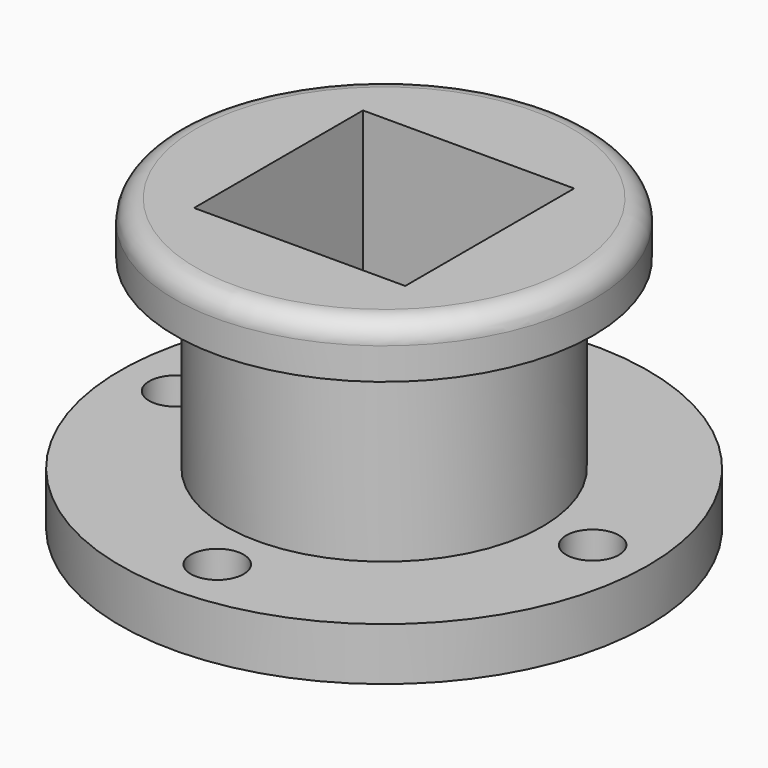
from build123d import *

# Parameters (mm, degrees)
F0_R      = 63.5
F1_DEPTH  = 12.7
F2_R      = 38.1
F3_DEPTH  = 57.15
F4_R      = 50.339294
F5_DEPTH  = 12.7
F6_R      = 5.08
F7_R      = 6.35
F8_DEPTH  = 12.7
F9_W      = 50.8
F9_H      = 50.8
F10_DEPTH = 127


with BuildPart() as f1:
    # F0 (on Top) → F1 (new body)
    with BuildSketch(Plane.XY):
        Circle(F0_R)
    extrude(amount=F1_DEPTH)

    # F2 (on Top) → F3 (join)
    with BuildSketch(Plane.XY):
        Circle(F2_R)
    extrude(amount=F3_DEPTH)

    # F4 (on face) → F5 (join)
    with BuildSketch(Plane.XY.offset(57.15)):
        Circle(F4_R)
    extrude(amount=F5_DEPTH)

    # F6
    f6_edges = [f1.edges().sort_by_distance(p)[0] for p in [
        (-50.339294, 0, 69.85),
    ]]
    fillet(f6_edges, radius=F6_R)

    # F7 (on Top) → F8 (cut)
    with BuildSketch(Plane.XY):
        with Locations((0, 50.170619)):
            Circle(F7_R)
        with Locations((-50.170619, 0)):
            Circle(F7_R)
        with Locations((0, -50.170619)):
            Circle(F7_R)
        with Locations((50.170619, 0)):
            Circle(F7_R)
    extrude(amount=F8_DEPTH, mode=Mode.SUBTRACT)

    # F9 (on Top) → F10 (cut)
    with BuildSketch(Plane.XY):
        Rectangle(F9_W, F9_H)
    extrude(amount=F10_DEPTH, mode=Mode.SUBTRACT)


solid = f1.part
